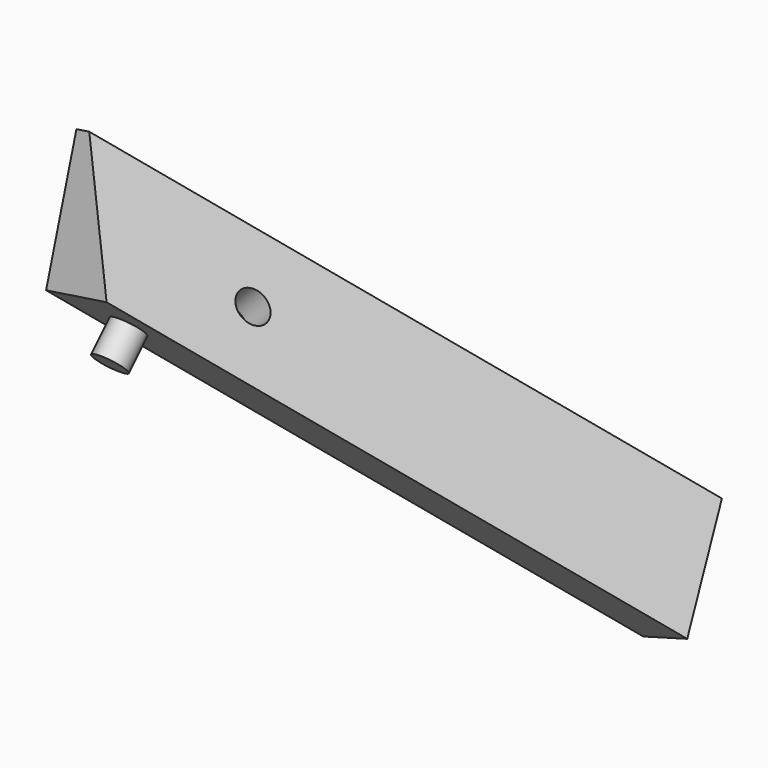
from build123d import *

# Parameters (mm, degrees)
PAD001_DEPTH            = 150
SKETCH001_R             = 7.5
PAD_DEPTH               = 15
SKETCH003_R             = 7.5
POCKET003_DEPTH         = 15
POCKET004_DEPTH         = 50
BODY004_PLACEMENT_ANGLE = 180


with BuildPart() as part:
    # Sketch002 (on DatumPlane) → Pad001 (new body, symmetric)
    with BuildSketch(Plane(origin=(0, -50, 50), x_dir=(0.8164965809, -0.4082482905, -0.4082482905), z_dir=(-0.5773502692, -0.5773502692, -0.5773502692))):
        Polygon((0, 0), (0, 55.7106781187), (-8.6602540378, 55.7106781187), (-40.8248290464, 0), align=None)
    extrude(amount=PAD001_DEPTH, both=True)

    # Sketch001 (on Face7 of Binder001) → Pad (join)
    with BuildSketch(Plane(origin=(0, -50, 50), x_dir=(1, 0, 0), z_dir=(0, -0.7071067812, 0.7071067812))):
        with Locations((32.1969593942, 80.8887157017)):
            Circle(SKETCH001_R)
    extrude(amount=-PAD_DEPTH)

    # Sketch003 (on Face6 of Pad) → Pocket003 (cut)
    with BuildSketch(Plane(origin=(-25, -50, 75), x_dir=(-0.4082482905, 0.8164965809, -0.4082482905), z_dir=(-0.7071067812, 0, 0.7071067812))):
        with Locations((-11.7521604853, -47.4562863756)):
            Circle(SKETCH003_R)
    extrude(amount=-POCKET003_DEPTH, mode=Mode.SUBTRACT)

    # Sketch005 (on Face6 of Pocket003) → Pocket004 (cut)
    with BuildSketch(Plane(origin=(-25, -50, 75), x_dir=(-0.4082482905, 0.8164965809, -0.4082482905), z_dir=(-0.7071067812, 0, 0.7071067812))):
        Polygon((20.4124145232, -103.8675134595), (-48.2468625128, -128.1422336512), (-48.2468625128, -150), (20.4124145232, -150), align=None)
    extrude(amount=-POCKET004_DEPTH, mode=Mode.SUBTRACT)


with BuildPart() as part_1:
    # Body004 placement: moved
    add(part.part.rotate(Axis((0, 0, 0), (0, 0, 1)), BODY004_PLACEMENT_ANGLE))


solid = part_1.part
